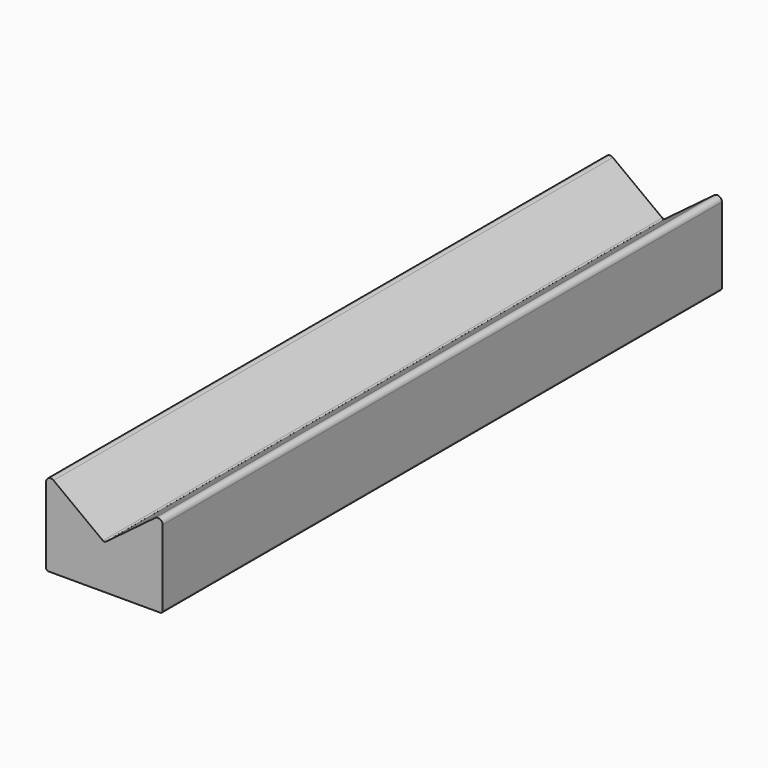
from build123d import *

# Parameters (mm, degrees)
F1_DEPTH = 38.1
F2_R     = 0.254
F3_R     = 0.127


with BuildPart() as f1:
    # F0 (on Front) → F1 (new body)
    with BuildSketch(Plane.XZ):
        Polygon((3.175, -2.38125), (0, -2.38125), (0, -4.7625), (6.35, -4.7625), (6.35, -2.38125), align=None)
        Polygon((3.175, -2.38125), (0, 0), (0, -2.38125), align=None)
        Polygon((6.35, -2.38125), (6.35, 0), (3.175, -2.38125), align=None)
    extrude(amount=F1_DEPTH)

    # F2
    f2_edges = [f1.edges().sort_by_distance(p)[0] for p in [
        (0, -19.05, 0),
        (6.35, -19.05, 0),
    ]]
    fillet(f2_edges, radius=F2_R)

    # F3
    f3_edges = [f1.edges().sort_by_distance(p)[0] for p in [
        (3.175, -19.05, -2.38125),
        (6.35, -19.05, -4.7625),
        (0, -19.05, -4.7625),
    ]]
    fillet(f3_edges, radius=F3_R)


solid = f1.part
